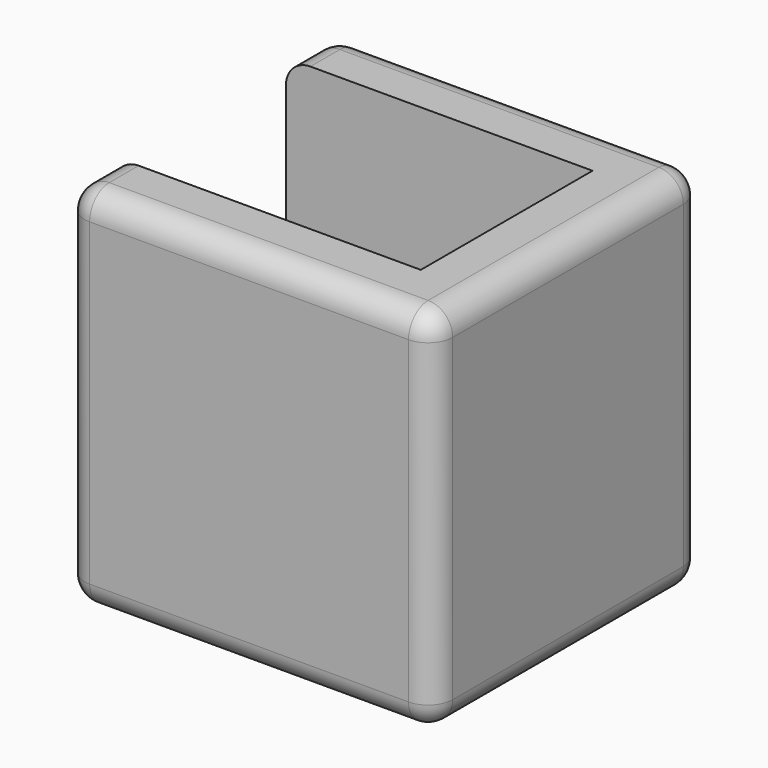
from build123d import *

# Parameters (mm, degrees)
SKETCH_W     = 30
SKETCH_H     = 27.5
PAD_DEPTH    = 5
PAD001_DEPTH = 25
FILLET_R     = 2


with BuildPart() as part:
    # Sketch → Pad (new body)
    with BuildSketch(Plane.XY):
        with Locations((2.5, 0)):
            Rectangle(SKETCH_W, SKETCH_H)
    extrude(amount=-PAD_DEPTH)

    # Sketch001 → Pad001 (join)
    with BuildSketch(Plane.XY):
        Polygon((-12.5, 8.75), (12.5, 8.75), (12.5, -8.75), (-12.5, -8.75), (-12.5, -13.75), (17.5, -13.75), (17.5, 13.75), (-12.5, 13.75), align=None)
    extrude(amount=PAD001_DEPTH)

    # Fillet
    fillet_edges = [part.edges().sort_by_distance(p)[0] for p in [
        (17.5, 0, 25),
        (2.5, -13.75, 25),
        (2.5, 13.75, 25),
        (17.5, 13.75, 10),
        (17.5, -13.75, 10),
        (17.5, 0, -5),
        (2.5, 13.75, -5),
        (-12.5, 13.75, 10),
        (-12.5, 0, -5),
        (-12.5, -13.75, 10),
        (2.5, -13.75, -5),
        (-12.5, -11.25, 25),
        (-12.5, 11.25, 25),
    ]]
    fillet(fillet_edges, radius=FILLET_R)


solid = part.part
